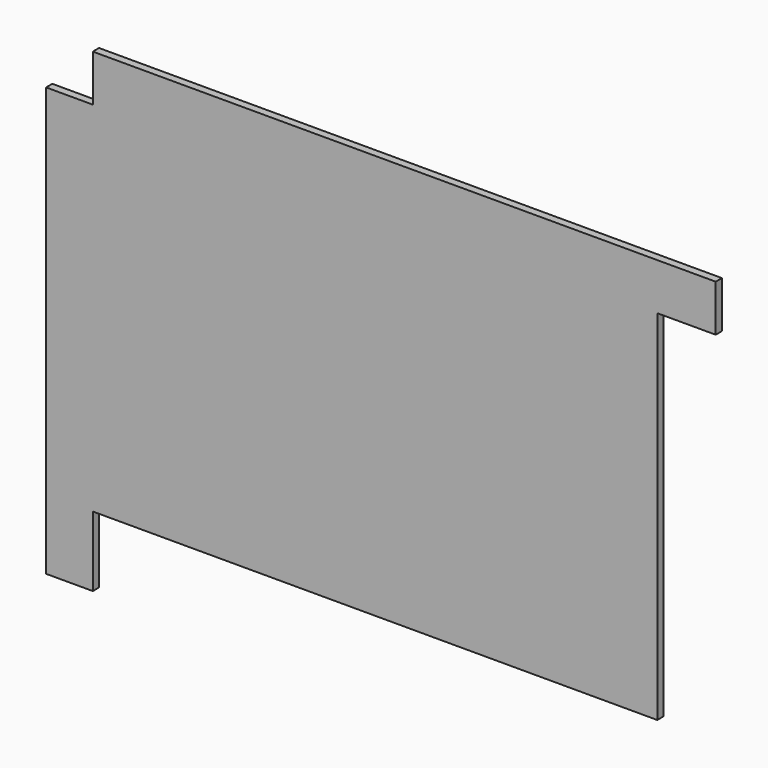
from build123d import *

# Parameters (mm, degrees)
PAD_DEPTH = 2


with BuildPart() as part:
    # Sketch → Pad (new body)
    with BuildSketch(Plane.XZ):
        Polygon((0, 0), (0, 110), (12, 110), (12, 122), (172, 122), (172, 110), (157, 110), (157, 18), (12, 18), (12, 0), align=None)
    extrude(amount=PAD_DEPTH)


solid = part.part
